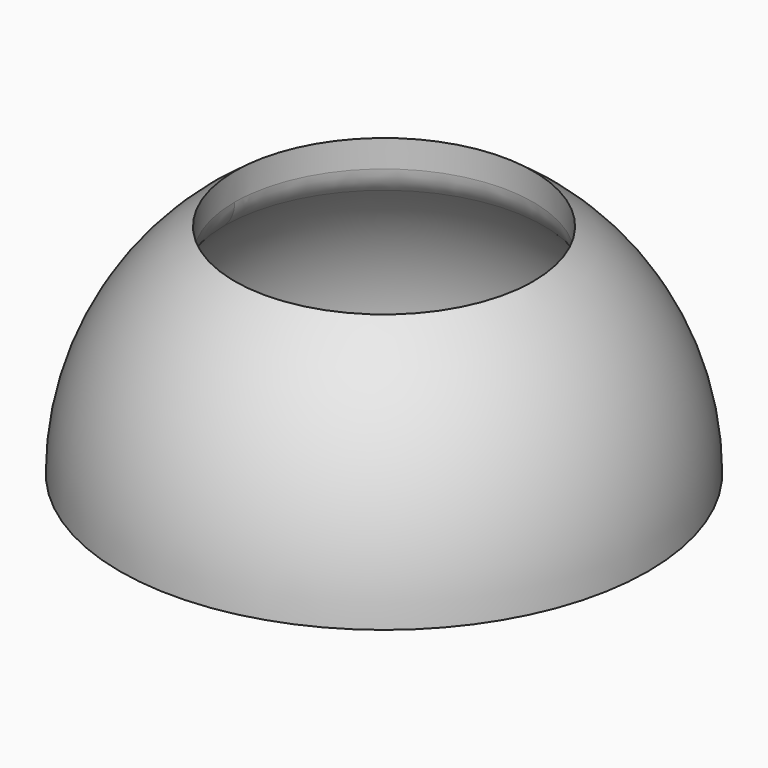
from build123d import *

# Parameters (mm, degrees)
F2_T     = -6.35
F4_R     = 28.3085495975
F5_DEPTH = 38.1
F6_R     = 6.35


with BuildPart() as f1:
    # F0 (on Front) → F1 (revolve)
    with BuildSketch(Plane.XZ):
        with BuildLine():
            Line((0, 0), (0, 50.0989693034))
            ThreePointArc((0, 50.0989693034), (-35.4253209249, 35.4253209249), (-50.0989693034, 0))
            Line((-50.0989693034, 0), (0, 0))
        make_face()
    revolve(axis=Axis((0, 0, 10.1562657768), (0, 0, -1)))

    # F2
    f2_openings = [f1.faces().sort_by_distance(p)[0] for p in [
        (0, 0, 0),
    ]]
    offset(amount=F2_T, openings=f2_openings)

    # F4 (on offset) → F5 (cut, symmetric)
    with BuildSketch(Plane.XY.offset(41.275)):
        Circle(F4_R)
    extrude(amount=F5_DEPTH, both=True, mode=Mode.SUBTRACT)

    # F6
    f6_edges = [f1.edges().sort_by_distance(p)[0] for p in [
        (0, -28.30855, 33.355634),
        (0, 28.30855, 33.355634),
    ]]
    fillet(f6_edges, radius=F6_R)


solid = f1.part
